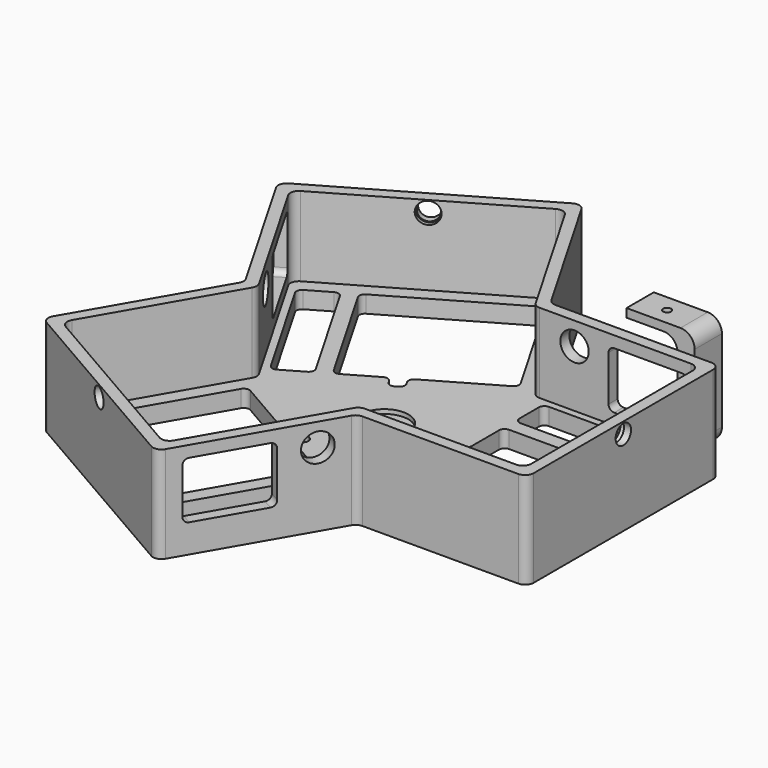
from build123d import *

# Parameters (mm, degrees)
F1_DEPTH             = 34
F0_W                 = 48
F0_H                 = 12.5
F2_DEPTH             = 6
F6_D                 = 6.8
F6_DEPTH             = 6
F6_CBORE_D           = 7.5
F6_CBORE_DEPTH       = 1.5
F6_TIP               = 2.0429261047
F6_ON_F5_D           = 6.8
F6_ON_F5_DEPTH       = 6
F6_ON_F5_CBORE_D     = 7.5
F6_ON_F5_CBORE_DEPTH = 1.5
F6_ON_F5_TIP         = 2.0429261047
F6_ON_F3_D           = 6.8
F6_ON_F3_DEPTH       = 6
F6_ON_F3_CBORE_D     = 7.5
F6_ON_F3_CBORE_DEPTH = 1.5
F6_ON_F3_TIP         = 2.0429261047
F10_D                = 10
F10_DEPTH            = 6
F10_TIP              = 3.0043030951
F10_ON_F9_D          = 10
F10_ON_F9_DEPTH      = 6
F10_ON_F9_TIP        = 3.0043030951
F10_ON_F7_D          = 10
F10_ON_F7_DEPTH      = 6
F10_ON_F7_TIP        = 3.0043030951
F9_W                 = 28
F9_H                 = 20
F11_DEPTH            = 25
F7_W                 = 28
F7_H                 = 20
F12_DEPTH            = 25
F8_W                 = 28
F8_H                 = 20
F13_DEPTH            = 25
F15_D                = 6.5
F15_CBORE_D          = 17
F15_CBORE_DEPTH      = 1.5
F16_R                = 2
F17_R                = 2
F18_R                = 2
F19_R                = 2
F20_R                = 3
F21_R                = 3
F22_W                = 18
F22_H                = 12
F22_W_2              = 6
F23_DEPTH            = 3
F24_DEPTH            = 36
F25_START            = 36
F25_DEPTH            = 3
F26_R                = 5
F27_R                = 1.4
F28_DEPTH            = 54.3


with BuildPart() as f1:
    # F0 (on Top) → F1 (new body)
    with BuildSketch(Plane.XY):
        Polygon((84.2279853638, 42.5), (24.5373864406, 42.5), (-5.3079130211, 94.1935750346), (-78.9200723427, 51.6935750346), (-49.0747728811, 0), (-78.9200723427, -51.6935750346), (-5.3079130211, -94.1935750346), (24.5373864406, -42.5), (84.2279853638, -42.5), align=None)
        Polygon((-6.7720146362, 88.7294734195), (22.2279853638, 38.5), (80.2279853638, 38.5), (80.2279853638, -38.5), (22.2279853638, -38.5), (-6.7720146362, -88.7294734195), (-73.4559707276, -50.2294734195), (-44.4559707276, 0), (-73.4559707276, 50.2294734195), align=None, mode=Mode.SUBTRACT)
    extrude(amount=F1_DEPTH)

    # F0 (on Top) → F2 (join)
    with BuildSketch(Plane.XY):
        Polygon((84.2279853638, 42.5), (24.5373864406, 42.5), (-5.3079130211, 94.1935750346), (-78.9200723427, 51.6935750346), (-49.0747728811, 0), (-78.9200723427, -51.6935750346), (-5.3079130211, -94.1935750346), (24.5373864406, -42.5), (84.2279853638, -42.5), align=None)
        Polygon((-6.7720146362, 88.7294734195), (22.2279853638, 38.5), (80.2279853638, 38.5), (80.2279853638, -38.5), (22.2279853638, -38.5), (-6.7720146362, -88.7294734195), (-73.4559707276, -50.2294734195), (-44.4559707276, 0), (-73.4559707276, 50.2294734195), align=None, mode=Mode.SUBTRACT)
        Polygon((22.2279853638, 2.5), (22.2279853638, 38.5), (-8.9489291724, 20.5), (-13.2790561914, 18), (-44.4559707276, 0), (-13.2790561914, -18), (-8.9489291724, -20.5), (22.2279853638, -38.5), (22.2279853638, -2.5), align=None)
        Polygon((-8.9489291724, 20.5), (22.2279853638, 38.5), (-6.7720146362, 88.7294734195), (-73.4559707276, 50.2294734195), (-44.4559707276, 0), (-13.2790561914, 18), (-15.7790561914, 22.3301270189), (-29.6354626519, 14.3301270189), (-53.6354626519, 55.8993464006), (-8.6021416551, 81.8993464006), (15.3978583449, 40.3301270189), (-11.4489291724, 24.8301270189), align=None)
        Polygon((-68.7909072181, 47.1493464006), (-57.9655896708, 53.3993464006), (-33.9655896708, 11.8301270189), (-44.7909072181, 5.5801270189), align=None, mode=Mode.SUBTRACT)
        Polygon((-6.7720146362, -88.7294734195), (22.2279853638, -38.5), (-8.9489291724, -20.5), (-11.4489291724, -24.8301270189), (2.4074772881, -32.8301270189), (-21.5925227119, -74.3993464006), (-66.6258437087, -48.3993464006), (-42.6258437087, -6.8301270189), (-15.7790561914, -22.3301270189), (-13.2790561914, -18), (-44.4559707276, 0), (-73.4559707276, -50.2294734195), align=None)
        Polygon((-6.4370781457, -83.1493464006), (-17.262395693, -76.8993464006), (6.737604307, -35.3301270189), (17.5629218543, -41.5801270189), align=None, mode=Mode.SUBTRACT)
        Polygon((80.2279853638, 38.5), (22.2279853638, 38.5), (22.2279853638, 2.5), (27.2279853638, 2.5), (27.2279853638, 18.5), (75.2279853638, 18.5), (75.2279853638, -33.5), (27.2279853638, -33.5), (27.2279853638, -2.5), (22.2279853638, -2.5), (22.2279853638, -38.5), (80.2279853638, -38.5), align=None)
        with Locations((51.2279853638, 29.75)):
            Rectangle(F0_W, F0_H, mode=Mode.SUBTRACT)
    extrude(amount=F2_DEPTH)

    # F6
    with Locations(Plane(origin=(-40.1139926819, 69.4794734195, 0), x_dir=(0.8660254038, 0.5, 0), z_dir=(0.5, -0.8660254038, 0))):
        with Locations((0, 30)):
            CounterBoreHole(F6_D / 2, F6_CBORE_D / 2, F6_CBORE_DEPTH, depth=F6_DEPTH)
            with Locations((0, 0, -(F6_DEPTH + F6_TIP / 2))):  # 118° drill point
                Cone(0, F6_D / 2, F6_TIP, mode=Mode.SUBTRACT)

    # F6 on F5
    with Locations(Plane(origin=(80.2279853638, 0, 0), x_dir=(0, -1, 0), z_dir=(-1, 0, 0))):
        with Locations((0, 30)):
            CounterBoreHole(F6_ON_F5_D / 2, F6_ON_F5_CBORE_D / 2, F6_ON_F5_CBORE_DEPTH, depth=F6_ON_F5_DEPTH)
            with Locations((0, 0, -(F6_ON_F5_DEPTH + F6_ON_F5_TIP / 2))):  # 118° drill point
                Cone(0, F6_ON_F5_D / 2, F6_ON_F5_TIP, mode=Mode.SUBTRACT)

    # F6 on F3
    with Locations(Plane(origin=(-40.1139926819, -69.4794734195, 0), x_dir=(-0.8660254038, 0.5, 0), z_dir=(0.5, 0.8660254038, 0))):
        with Locations((0, 30)):
            CounterBoreHole(F6_ON_F3_D / 2, F6_ON_F3_CBORE_D / 2, F6_ON_F3_CBORE_DEPTH, depth=F6_ON_F3_DEPTH)
            with Locations((0, 0, -(F6_ON_F3_DEPTH + F6_ON_F3_TIP / 2))):  # 118° drill point
                Cone(0, F6_ON_F3_D / 2, F6_ON_F3_TIP, mode=Mode.SUBTRACT)

    # F10 (one way)
    with BuildSketch(Plane.XZ.offset(-38.5)):
        with Locations((36.2279853638, 26)):
            Circle(F10_D / 2)
    extrude(amount=-F10_DEPTH, mode=Mode.SUBTRACT)
    with Locations(Plane.XZ.offset(-38.5)):
        with Locations((36.2279853638, 26)):
            with Locations((0, 0, -(F10_DEPTH + F10_TIP / 2))):  # 118° drill point
                Cone(0, F10_D / 2, F10_TIP, mode=Mode.SUBTRACT)

    # F10 on F9 (one way)
    with BuildSketch(Plane(origin=(-33.3419780457, -19.25, 0), x_dir=(-0.5, 0.8660254038, 0), z_dir=(0.8660254038, 0.5, 0))):
        with Locations((36.2279853638, 26)):
            Circle(F10_ON_F9_D / 2)
    extrude(amount=-F10_ON_F9_DEPTH, mode=Mode.SUBTRACT)
    with Locations(Plane(origin=(-33.3419780457, -19.25, 0), x_dir=(-0.5, 0.8660254038, 0), z_dir=(0.8660254038, 0.5, 0))):
        with Locations((36.2279853638, 26)):
            with Locations((0, 0, -(F10_ON_F9_DEPTH + F10_ON_F9_TIP / 2))):  # 118° drill point
                Cone(0, F10_ON_F9_D / 2, F10_ON_F9_TIP, mode=Mode.SUBTRACT)

    # F10 on F7 (one way)
    with BuildSketch(Plane(origin=(33.3419780457, -19.25, 0), x_dir=(-0.5, -0.8660254038, 0), z_dir=(-0.8660254038, 0.5, 0))):
        with Locations((36.2279853638, 26)):
            Circle(F10_ON_F7_D / 2)
    extrude(amount=-F10_ON_F7_DEPTH, mode=Mode.SUBTRACT)
    with Locations(Plane(origin=(33.3419780457, -19.25, 0), x_dir=(-0.5, -0.8660254038, 0), z_dir=(-0.8660254038, 0.5, 0))):
        with Locations((36.2279853638, 26)):
            with Locations((0, 0, -(F10_ON_F7_DEPTH + F10_ON_F7_TIP / 2))):  # 118° drill point
                Cone(0, F10_ON_F7_D / 2, F10_ON_F7_TIP, mode=Mode.SUBTRACT)

    # F9 (on face) → F11 (cut)
    with BuildSketch(Plane(origin=(-33.3419780457, -19.25, 0), x_dir=(-0.5, 0.8660254038, 0), z_dir=(0.8660254038, 0.5, 0))):
        with Locations((62.2279853638, 20)):
            Rectangle(F9_W, F9_H)
    extrude(amount=-F11_DEPTH, mode=Mode.SUBTRACT)

    # F7 (on face) → F12 (cut)
    with BuildSketch(Plane(origin=(33.3419780457, -19.25, 0), x_dir=(-0.5, -0.8660254038, 0), z_dir=(-0.8660254038, 0.5, 0))):
        with Locations((62.2279853638, 20)):
            Rectangle(F7_W, F7_H)
    extrude(amount=-F12_DEPTH, mode=Mode.SUBTRACT)

    # F8 (on face) → F13 (cut)
    with BuildSketch(Plane.XZ.offset(-38.5)):
        with Locations((62.2279853638, 20)):
            Rectangle(F8_W, F8_H)
    extrude(amount=-F13_DEPTH, mode=Mode.SUBTRACT)

    # F15 (through all)
    with Locations(Plane.XY.offset(6)):
        with Locations((0, 0)):
            CounterBoreHole(F15_D / 2, F15_CBORE_D / 2, F15_CBORE_DEPTH)

    # F16
    f16_edges = [f1.edges().sort_by_distance(p)[0] for p in [
        (-73.188022, 45.765372, 30),
        (-59.188022, 21.51666, 30),
        (-59.188022, 21.51666, 10),
        (-73.188022, 45.765372, 10),
        (-3.039964, -86.265372, 30),
        (10.960036, -62.01666, 30),
        (10.960036, -62.01666, 10),
        (-3.039964, -86.265372, 10),
        (76.227985, 40.5, 10),
        (76.227985, 40.5, 30),
        (48.227985, 40.5, 30),
        (48.227985, 40.5, 10),
    ]]
    fillet(f16_edges, radius=F16_R)

    # F17
    f17_edges = [f1.edges().sort_by_distance(p)[0] for p in [
        (-6.437078, -83.149346, 3),
        (17.562922, -41.580127, 3),
        (6.737604, -35.330127, 3),
        (-17.262396, -76.899346, 3),
        (-21.592523, -74.399346, 3),
        (-66.625844, -48.399346, 3),
        (-42.625844, -6.830127, 3),
        (-11.448929, -24.830127, 3),
        (-15.779056, -22.330127, 3),
        (-8.948929, -20.5, 3),
        (-13.279056, -18, 3),
        (2.407477, -32.830127, 3),
    ]]
    fillet(f17_edges, radius=F17_R)

    # F18
    f18_edges = [f1.edges().sort_by_distance(p)[0] for p in [
        (-44.790907, 5.580127, 3),
        (-29.635463, 14.330127, 3),
        (-33.96559, 11.830127, 3),
        (-11.448929, 24.830127, 3),
        (-8.948929, 20.5, 3),
        (-13.279056, 18, 3),
        (-15.779056, 22.330127, 3),
        (15.397858, 40.330127, 3),
        (-8.602142, 81.899346, 3),
        (-53.635463, 55.899346, 3),
        (-68.790907, 47.149346, 3),
        (-57.96559, 53.399346, 3),
    ]]
    fillet(f18_edges, radius=F18_R)

    # F19
    f19_edges = [f1.edges().sort_by_distance(p)[0] for p in [
        (27.227985, 18.5, 3),
        (27.227985, 2.5, 3),
        (22.227985, 2.5, 3),
        (27.227985, -2.5, 3),
        (27.227985, 23.5, 3),
        (27.227985, 36, 3),
        (75.227985, 36, 3),
        (75.227985, 18.5, 3),
        (75.227985, 23.5, 3),
        (75.227985, -33.5, 3),
        (22.227985, -2.5, 3),
        (27.227985, -33.5, 3),
    ]]
    fillet(f19_edges, radius=F19_R)

    # F20
    f20_edges = [f1.edges().sort_by_distance(p)[0] for p in [
        (80.227985, 38.5, 20),
        (22.227985, 38.5, 20),
        (80.227985, -38.5, 20),
        (22.227985, -38.5, 20),
        (-6.772015, 88.729473, 20),
        (-73.455971, 50.229473, 20),
        (-44.455971, 0, 20),
        (-73.455971, -50.229473, 20),
        (-6.772015, -88.729473, 20),
    ]]
    fillet(f20_edges, radius=F20_R)

    # F21
    f21_edges = [f1.edges().sort_by_distance(p)[0] for p in [
        (-5.307913, -94.193575, 17),
        (-78.920072, -51.693575, 17),
        (-49.074773, 0, 17),
        (-78.920072, 51.693575, 17),
        (-5.307913, 94.193575, 17),
        (24.537386, 42.5, 17),
        (84.227985, 42.5, 17),
        (84.227985, -42.5, 17),
        (24.537386, -42.5, 17),
    ]]
    fillet(f21_edges, radius=F21_R)


with BuildPart() as f23:
    # F22 (on Top) → F23 (new body)
    with BuildSketch(Plane.XY):
        with Locations((57.7149673561, 51.8033765256)):
            Rectangle(F22_W, F22_H)
        with Locations((69.7149673561, 51.8033765256)):
            Rectangle(F22_W_2, F22_H)
    extrude(amount=F23_DEPTH)

    # F22 (on Top) → F24 (join)
    with BuildSketch(Plane.XY):
        with Locations((69.7149673561, 51.8033765256)):
            Rectangle(F22_W_2, F22_H)
    extrude(amount=F24_DEPTH)

    # F22 (on Top) → F25 (join)
    with BuildSketch(Plane.XY.offset(F25_START)):
        with Locations((57.7149673561, 51.8033765256)):
            Rectangle(F22_W, F22_H)
        with Locations((69.7149673561, 51.8033765256)):
            Rectangle(F22_W_2, F22_H)
    extrude(amount=F25_DEPTH)

    # F26
    f26_edges = [f23.edges().sort_by_distance(p)[0] for p in [
        (66.714967, 51.803377, 3),
        (66.714967, 51.803377, 36),
        (72.714967, 51.803377, 39),
        (72.714967, 51.803377, 0),
    ]]
    fillet(f26_edges, radius=F26_R)

    # F27 (on face) → F28 (cut)
    with BuildSketch(Plane.XY.offset(39)):
        with Locations((58.2149673561, 51.8033765256)):
            Circle(F27_R)
    extrude(amount=-F28_DEPTH, mode=Mode.SUBTRACT)


solid = Compound([f1.part, f23.part])
